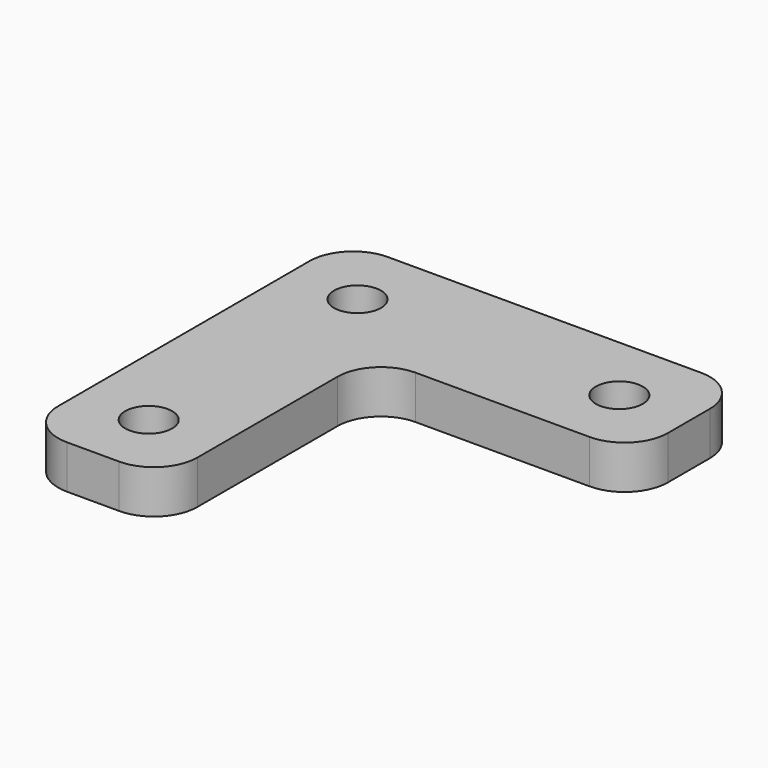
from build123d import *

# Parameters (mm, degrees)
F0_R     = 2.7
F1_DEPTH = 5
F2_R     = 5


with BuildPart() as f1:
    # F0 (on Top) → F1 (new body)
    with BuildSketch(Plane.XY):
        Polygon((25.213581, 25.499096), (-20.786419, 25.499096), (-20.786419, -20.61566), (-4.786419, -20.61566), (-4.786419, 9.499096), (25.213581, 9.499096), align=None)
        with Locations((-12.786419, -12.61566)):
            Circle(F0_R, mode=Mode.SUBTRACT)
        with Locations((-12.786419, 17.38434)):
            Circle(F0_R, mode=Mode.SUBTRACT)
        with Locations((17.213581, 17.499096)):
            Circle(F0_R, mode=Mode.SUBTRACT)
    extrude(amount=F1_DEPTH)

    # F2
    f2_edges = [f1.edges().sort_by_distance(p)[0] for p in [
        (-20.786419, -20.61566, 2.5),
        (-4.786419, -20.61566, 2.5),
        (25.213581, 9.499096, 2.5),
        (25.213581, 25.499096, 2.5),
        (-20.786419, 25.499096, 2.5),
        (-4.786419, 9.499096, 2.5),
    ]]
    fillet(f2_edges, radius=F2_R)


solid = f1.part
